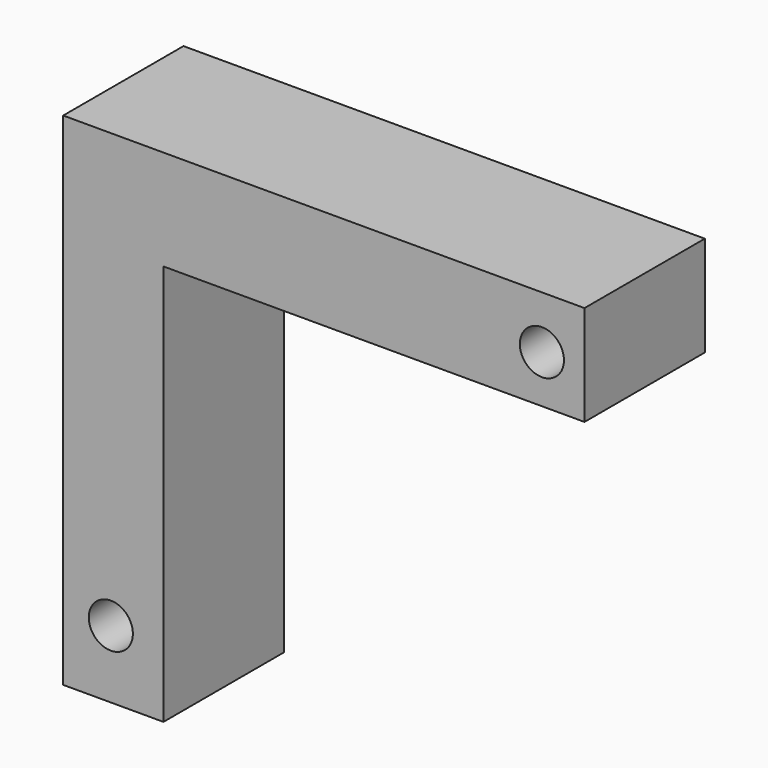
from build123d import *

# Parameters (mm, degrees)
F0_R     = 2.2
F1_DEPTH = 15
F2_R     = 2.2
F3_DEPTH = 15


with BuildPart() as f1:
    # F0 (on Front) → F1 (new body)
    with BuildSketch(Plane.XZ):
        with BuildLine():
            Line((8.592964, -25.75), (25.75, -25.75))
            Line((25.75, -25.75), (25.75, 0))
            ThreePointArc((25.75, 0), (24.573215, 7.695427), (21.150419, 14.687487))
            Line((21.150419, 14.687487), (23.486593, 16.752013))
            ThreePointArc((23.486593, 16.752013), (23.747987, 20.986593), (19.513407, 21.247987))
            Line((19.513407, 21.247987), (17.177232, 19.183461))
            ThreePointArc((17.177232, 19.183461), (-10.505921, 23.50932), (-25.75, 0))
            ThreePointArc((-25.75, 0), (-24.545164, -7.667474), (-21.046787, -14.595905))
            Line((-21.046787, -14.595905), (-23.486593, -16.752013))
            ThreePointArc((-23.486593, -16.752013), (-23.747987, -20.986593), (-19.513407, -21.247987))
            Line((-19.513407, -21.247987), (-16.983615, -19.012358))
            ThreePointArc((-16.983615, -19.012358), (-4.7787, -24.673256), (8.592964, -23.188554))
            Line((8.592964, -23.188554), (8.592964, -25.75))
        make_face()
        with Locations((-21.5, -19)):
            Circle(F0_R, mode=Mode.SUBTRACT)
        with Locations((21.5, 19)):
            Circle(F0_R, mode=Mode.SUBTRACT)
    extrude(amount=F1_DEPTH)


with BuildPart() as f3:
    # F2 (on Front) → F3 (new body)
    with BuildSketch(Plane.XZ):
        Polygon((25.75, 14.25), (25.75, 24.25), (-26.25, 24.25), (-26.25, -25.75), (-16.25, -25.75), (-16.25, 14.25), align=None)
        with Locations((-21.5, -19)):
            Circle(F2_R, mode=Mode.SUBTRACT)
        with Locations((21.5, 19)):
            Circle(F2_R, mode=Mode.SUBTRACT)
    extrude(amount=-F3_DEPTH)


solid = f3.part
